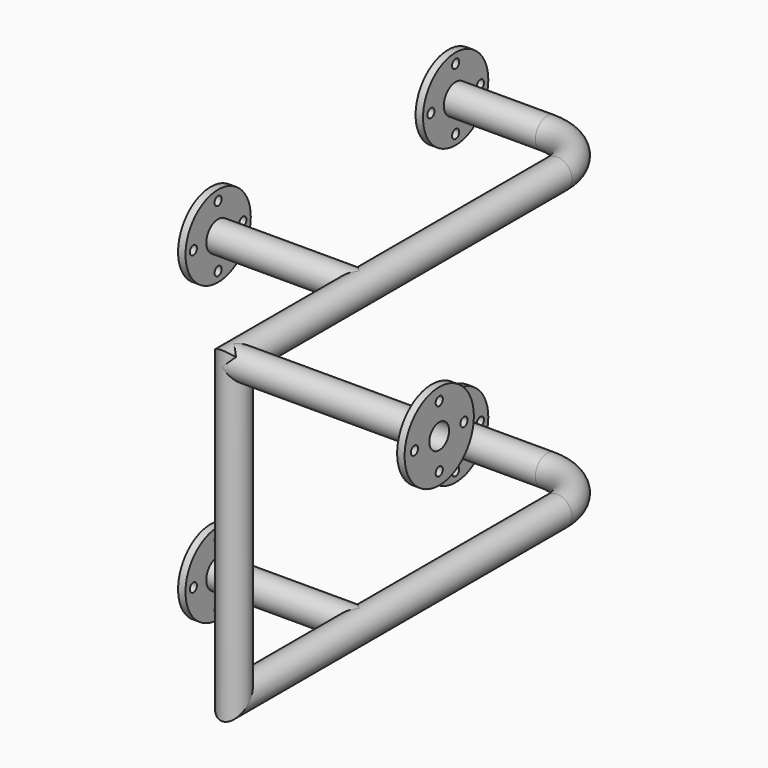
from build123d import *

# Parameters (mm, degrees)
F4_R      = 30
F4_R_2    = 25
F5_R      = 82.5
F5_R_2    = 9
F5_R_3    = 25
F11_DEPTH = 15
F14_R     = 30
F15_DEPTH = 415
F16_R     = 87.5
F16_R_2   = 9
F16_R_3   = 30
F17_DEPTH = 15
F16_R_4   = 25
F18_DEPTH = 150


with BuildPart() as f7:
    # F7: sweep along a path in F3, F6
    with BuildLine(Plane.XY.offset(600)) as f7_path:
        Line((0, 0), (200, 0))
        ThreePointArc((200, 0), (270.7106781187, -29.2893218813), (300, -100))
        Line((300, -100), (300, -600))
        Line((300, -600), (300, -916.482))
    with BuildLine(Plane.YZ.offset(300)) as f7_path_2:
        Line((-916.482, 600), (-916.482, 0))
    # F4 (on Right) → F7 (sweep)
    with BuildSketch(Plane.YZ):
        with Locations((0, 600)):
            Circle(F4_R)
        with Locations((0, 600)):
            Circle(F4_R_2, mode=Mode.SUBTRACT)
    sweep(path=f7_path.line + f7_path_2.line, transition=Transition.RIGHT)

    # F8: sweep along a path in F0, F6
    with BuildLine(Plane.XY) as f8_path:
        Line((0, 0), (200, 0))
        ThreePointArc((200, 0), (270.7106781187, -29.2893218813), (300, -100))
        Line((300, -100), (300, -600))
        Line((300, -600), (300, -916.482))
    with BuildLine(Plane.YZ.offset(300)) as f8_path_2:
        Line((-916.482, 600), (-916.482, 0))
    # F4 (on Right) → F8 (sweep)
    with BuildSketch(Plane.YZ):
        Circle(F4_R)
        Circle(F4_R_2, mode=Mode.SUBTRACT)
    sweep(path=f8_path.line + f8_path_2.line, transition=Transition.RIGHT)

    # F4 (on Right) → F9 (join, up to the next surface of F7)
    with BuildSketch(Plane.YZ):
        with Locations((-600, 600)):
            Circle(F4_R)
        with Locations((-600, 600)):
            Circle(F4_R_2, mode=Mode.SUBTRACT)
    extrude(until=Until.NEXT)

    # F4 (on Right) → F10 (join, up to the next surface of F7)
    with BuildSketch(Plane.YZ):
        with Locations((-600, 0)):
            Circle(F4_R)
        with Locations((-600, 0)):
            Circle(F4_R_2, mode=Mode.SUBTRACT)
    extrude(until=Until.NEXT)

    # F5 (on face) → F11 (join)
    with BuildSketch(Plane.YZ):
        with Locations((0, 600)):
            Circle(F5_R)
        with Locations((0, 537.5)):
            Circle(F5_R_2, mode=Mode.SUBTRACT)
        with Locations((-62.5, 600)):
            Circle(F5_R_2, mode=Mode.SUBTRACT)
        with Locations((0, 600)):
            Circle(F5_R_3, mode=Mode.SUBTRACT)
        with Locations((62.5, 600)):
            Circle(F5_R_2, mode=Mode.SUBTRACT)
        with Locations((0, 662.5)):
            Circle(F5_R_2, mode=Mode.SUBTRACT)
        Circle(F5_R)
        with Locations((-62.5, 0)):
            Circle(F5_R_2, mode=Mode.SUBTRACT)
        with Locations((0, -62.5)):
            Circle(F5_R_2, mode=Mode.SUBTRACT)
        Circle(F5_R_3, mode=Mode.SUBTRACT)
        with Locations((62.5, 0)):
            Circle(F5_R_2, mode=Mode.SUBTRACT)
        with Locations((0, 62.5)):
            Circle(F5_R_2, mode=Mode.SUBTRACT)
        with Locations((-600, 600)):
            Circle(F5_R)
        with Locations((-600, 537.5)):
            Circle(F5_R_2, mode=Mode.SUBTRACT)
        with Locations((-662.5, 600)):
            Circle(F5_R_2, mode=Mode.SUBTRACT)
        with Locations((-600, 600)):
            Circle(F5_R_3, mode=Mode.SUBTRACT)
        with Locations((-600, 662.5)):
            Circle(F5_R_2, mode=Mode.SUBTRACT)
        with Locations((-537.5, 600)):
            Circle(F5_R_2, mode=Mode.SUBTRACT)
        with Locations((-600, 0)):
            Circle(F5_R)
        with Locations((-600, -62.5)):
            Circle(F5_R_2, mode=Mode.SUBTRACT)
        with Locations((-662.5, 0)):
            Circle(F5_R_2, mode=Mode.SUBTRACT)
        with Locations((-600, 0)):
            Circle(F5_R_3, mode=Mode.SUBTRACT)
        with Locations((-537.5, 0)):
            Circle(F5_R_2, mode=Mode.SUBTRACT)
        with Locations((-600, 62.5)):
            Circle(F5_R_2, mode=Mode.SUBTRACT)
    extrude(amount=F11_DEPTH)

    # F14 (on offset) → F15 (join)
    with BuildSketch(Plane.YZ.offset(300)):
        with Locations((-916.482, 600)):
            Circle(F14_R)
    extrude(amount=F15_DEPTH)

    # F16 (on face) → F17 (join)
    with BuildSketch(Plane.YZ.offset(715)):
        with Locations((-916.482, 600)):
            Circle(F16_R)
        with Locations((-916.482, 537.5)):
            Circle(F16_R_2, mode=Mode.SUBTRACT)
        with Locations((-978.982, 600)):
            Circle(F16_R_2, mode=Mode.SUBTRACT)
        with Locations((-916.482, 600)):
            Circle(F16_R_3, mode=Mode.SUBTRACT)
        with Locations((-853.982, 600)):
            Circle(F16_R_2, mode=Mode.SUBTRACT)
        with Locations((-916.482, 662.5)):
            Circle(F16_R_2, mode=Mode.SUBTRACT)
    extrude(amount=-F17_DEPTH)

    # F16 (on face) → F18 (cut)
    with BuildSketch(Plane.YZ.offset(715)):
        with Locations((-916.482, 600)):
            Circle(F16_R_4)
    extrude(amount=-F18_DEPTH, mode=Mode.SUBTRACT)


solid = f7.part
